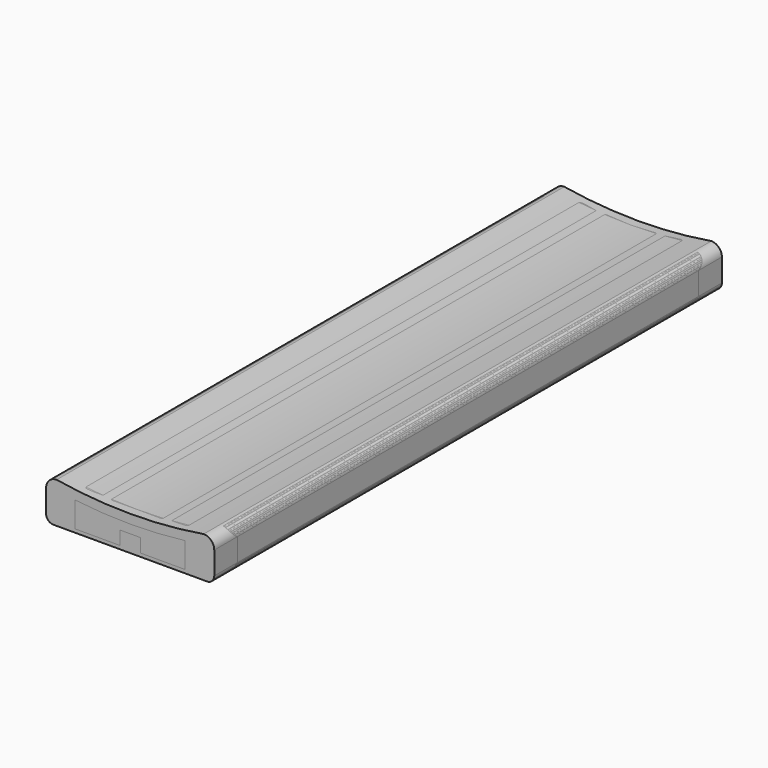
from build123d import *

# Parameters (mm, degrees)
PAD_DEPTH         = 10
SKETCH001_W       = 49.4
SKETCH001_H       = 280
POCKET_DEPTH      = 8.6
POCKET001_DEPTH   = 269.901
SKETCH003_R       = 4.5
POCKET002_DEPTH   = 5
FILLET_R          = 2
PAD002_DEPTH      = 140
PAD002_DEPTH_BACK = 140
PAD001_DEPTH      = 280
SKETCH006_R       = 1.7409684687
SKETCH006_R_2     = 1.740969
POCKET003_DEPTH   = 280.001
SKETCH007_W       = 136.169487
SKETCH007_H       = 310.054815
POCKET004_DEPTH   = 18.0108629238
FILLET001_R       = 4


with BuildPart() as body:
    # Sketch → Pad (new body)
    with BuildSketch(Plane.XY):
        with BuildLine():
            Line((-31.1, 82.25), (-31.1, -84.95))
            Line((-31.1, -84.95), (-16.9692391503, -131.1289570251))
            ThreePointArc((-16.9692391503, -131.1289570251), (-15.0165175959, -133.8909115758), (-11.8040658656, -134.95))
            Line((-11.8040658656, -134.95), (0, -134.95))
            Line((11.8040658656, -134.95), (0, -134.95))
            ThreePointArc((11.8040658656, -134.95), (15.0165175959, -133.8909115758), (16.9692391503, -131.1289570251))
            Line((31.1, -84.95), (16.9692391503, -131.1289570251))
            Line((31.1, 82.25), (31.1, -84.95))
            Line((31.1, 82.25), (17.6118667618, 130.9366179216))
            ThreePointArc((17.6118667618, 130.9366179216), (15.6501067208, 133.8326401922), (12.3354491955, 134.95))
            Line((12.3354491955, 134.95), (0, 134.95))
            Line((-12.3354491955, 134.95), (0, 134.95))
            ThreePointArc((-12.3354491955, 134.95), (-15.6501067208, 133.8326401922), (-17.6118667618, 130.9366179216))
            Line((-31.1, 82.25), (-17.6118667618, 130.9366179216))
        make_face()
    extrude(amount=PAD_DEPTH)

    # Sketch001 (on Face16 of Pad) → Pocket (cut)
    with BuildSketch(Plane.XY.offset(10)):
        Rectangle(SKETCH001_W, SKETCH001_H)
    extrude(amount=-POCKET_DEPTH, mode=Mode.SUBTRACT)

    # Sketch002 (on Face10 of Pocket) → Pocket001 (cut, through all)
    with BuildSketch(Plane.XZ.offset(134.95)):
        Polygon((-30, 9.713544), (-24.7, 1.4), (-19.320475, 11.622762), (-33.900391, 13.882647), (-33.900391, 0), (-25.227428, 0), (-31.06852, 9.038736), align=None)
        Polygon((30, 9.713544), (24.7, 1.4), (19.320475, 11.622762), (33.900391, 13.882647), (33.900391, 0), (25.227428, 0), (31.06852, 9.038736), align=None)
    extrude(amount=-POCKET001_DEPTH, mode=Mode.SUBTRACT)

    # Sketch003 (on Face4 of Pocket001) → Pocket002 (cut)
    with BuildSketch(Plane.XY.offset(1.4)):
        with Locations((0, 48.45)):
            Circle(SKETCH003_R)
        with Locations((0, -59.25)):
            Circle(SKETCH003_R)
    extrude(amount=-POCKET002_DEPTH, mode=Mode.SUBTRACT)

    # Fillet
    fillet_edges = [body.edges().sort_by_distance(p)[0] for p in [
        (24.7, -0.256831, 1.4),
        (-24.7, -0.256831, 1.4),
    ]]
    fillet(fillet_edges, radius=FILLET_R)

    # Sketch005 → Pad002 (join, two sides)
    with BuildSketch(Plane.XZ) as pad002_sk:
        with BuildLine():
            Line((-37.1033544261, 13.3415099999), (-37.1033544261, 3.2831809619))
            ThreePointArc((-37.1033544261, 3.2831809619), (-36.1653643689, 1.0186726446), (-33.9008560516, 0.0806825875))
            Line((-33.9008560516, 0.0806825875), (33.9008560516, 0.0806825875))
            ThreePointArc((33.9008560516, 0.0806825875), (36.1653643689, 1.0186726446), (37.1033544261, 3.2831809619))
            Line((37.1033544261, 3.2831809619), (37.1033544261, 13.3415099999))
            ThreePointArc((37.1033544261, 13.3415099999), (35.7360255116, 16.6425340094), (32.4350015021, 18.0098629238))
            ThreePointArc((-32.4350015021, 18.0098629238), (0, 15.3330238524), (32.4350015021, 18.0098629238))
            ThreePointArc((-32.4350015021, 18.0098629238), (-35.7360255116, 16.6425340094), (-37.1033544261, 13.3415099999))
        make_face()
    extrude(amount=PAD002_DEPTH)
    extrude(pad002_sk.sketch, amount=-PAD002_DEPTH_BACK)


with BuildPart() as body001:
    # Sketch004 → Pad001 (new body)
    with BuildSketch(Plane.XZ):
        with BuildLine():
            Line((-37.1033544261, 13.3415099999), (-37.1033544261, 3.2831809619))
            ThreePointArc((-37.1033544261, 3.2831809619), (-36.1653643689, 1.0186726446), (-33.9008560516, 0.0806825875))
            Line((-33.9008560516, 0.0806825875), (33.9008560516, 0.0806825875))
            ThreePointArc((33.9008560516, 0.0806825875), (36.1653643689, 1.0186726446), (37.1033544261, 3.2831809619))
            Line((37.1033544261, 3.2831809619), (37.1033544261, 13.3415099999))
            ThreePointArc((37.1033544261, 13.3415099999), (35.7360255116, 16.6425340094), (32.4350015021, 18.0098629238))
            ThreePointArc((-32.4350015021, 18.0098629238), (0, 15.3330238524), (32.4350015021, 18.0098629238))
            ThreePointArc((-32.4350015021, 18.0098629238), (-35.7360255116, 16.6425340094), (-37.1033544261, 13.3415099999))
        make_face()
    extrude(amount=PAD001_DEPTH)

    # Sketch006 (on Face9 of Pad001) → Pocket003 (cut, through all)
    with BuildSketch(Plane(origin=(0, 0, 0), x_dir=(1, 0, 0), z_dir=(0, 1, 0))):
        with Locations((-29.949108, -10.271403)):
            Circle(SKETCH006_R)
        with Locations((29.949108, -10.271403)):
            Circle(SKETCH006_R_2)
        Polygon((-31.202127, -9.06272), (-29.958563, -9.808096), (-24.520975, -1.575256), (-4.545325, -1.575256), (-4.545325, -7.575256), (4.545325, -7.575256), (4.545325, -1.575256), (24.430325, -1.575256), (29.966084, -9.924779), (31.304359, -9.059795), (31.304359, -1.575256), (46.393883, -1.575256), (46.393883, 3.267114), (-41.182669, 3.267114), (-41.182669, -1.575256), (-31.202127, -1.575256), align=None)
    extrude(amount=-POCKET003_DEPTH, mode=Mode.SUBTRACT)

    # Sketch007 → Pocket004 (cut, through all)
    with BuildSketch(Plane.XY):
        with Locations((3.5553345, -132.0584845)):
            Rectangle(SKETCH007_W, SKETCH007_H)
        with BuildLine():
            Line((24.2633544261, 0), (-24.2633544261, 0))
            ThreePointArc((-24.2633544261, 0), (-33.3426054965, -3.7607489296), (-37.1033544261, -12.84))
            Line((-37.1033544261, -12.84), (-37.1033544261, -267.16))
            ThreePointArc((-37.1033544261, -267.16), (-33.3426054965, -276.2392510704), (-24.2633544261, -280))
            Line((-24.2633544261, -280), (24.2633544261, -280))
            ThreePointArc((24.2633544261, -280), (33.3426054965, -276.2392510704), (37.1033544261, -267.16))
            Line((37.1033544261, -267.16), (37.1033544261, -12.84))
            ThreePointArc((37.1033544261, -12.84), (33.3426054965, -3.7607489296), (24.2633544261, 0))
        make_face(mode=Mode.SUBTRACT)
    extrude(amount=POCKET004_DEPTH, mode=Mode.SUBTRACT)

    # Fillet001
    fillet001_edges = [body001.edges().sort_by_distance(p)[0] for p in [
        (-28.605664, -0.756542, 17.411946),
        (0, 0, 15.333024),
        (28.605664, -0.756542, 17.411946),
        (32.435002, -140, 18.009863),
        (28.605664, -279.243458, 17.411946),
        (0, -280, 15.333024),
        (-28.605664, -279.243458, 17.411946),
        (-32.435002, -140, 18.009863),
    ]]
    fillet(fillet001_edges, radius=FILLET001_R)


with BuildPart() as body001_1:
    # Body001 placement: moved
    add(body001.part.moved(Location((0, 140, 0))))


solid = Compound([body.part, body001_1.part])
